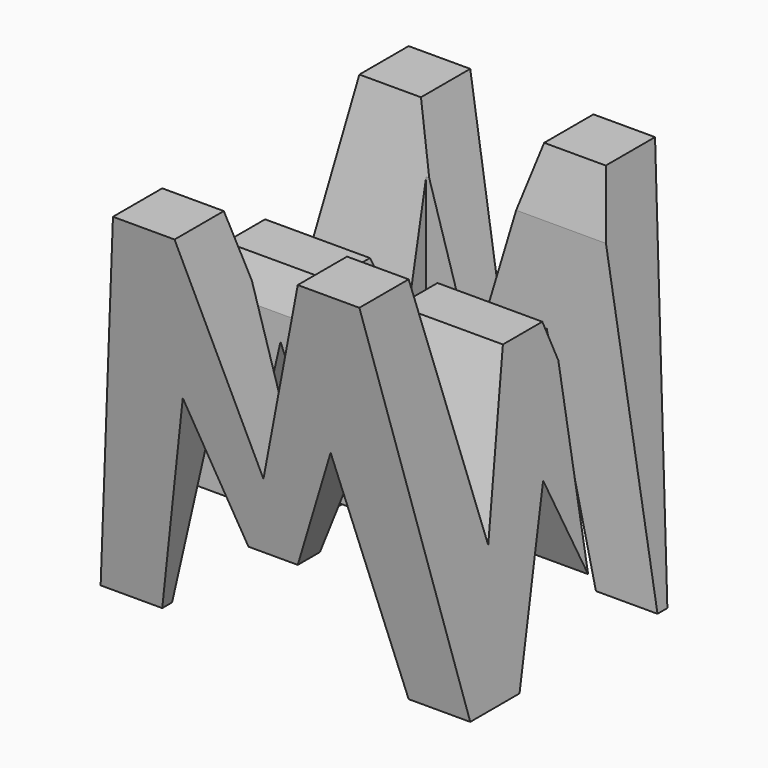
from build123d import *

# Parameters (mm, degrees)
F0_W      = 38.1
F0_H      = 38.1
F1_DEPTH  = 38.1
F6_DEPTH  = 38.1
F8_DEPTH  = 38.1
F9_W      = 23.850204
F9_H      = 7.62
F9_W_2    = 24.289329
F10_DEPTH = 38.1


with BuildPart() as f1:
    # F0 (on Front) → F1 (new body)
    with BuildSketch(Plane.XZ):
        with Locations((19.05, 19.05)):
            Rectangle(F0_W, F0_H)
    extrude(amount=F1_DEPTH)

    # F5 (on offset) → F6 (cut)
    with BuildSketch(Plane.YZ.offset(38.1)):
        Polygon((-11.43, 13.264209), (-6.35, 38.1), (-9.257666, 38.1), (-31.75, 38.1), (-26.67, 13.264209), (-21.59, 28.575), (-16.51, 28.575), align=None)
        Polygon((-38.1, 0), (-31.75, 0), (-38.1, 38.1), align=None)
        Polygon((-25.4, 0), (-12.7, 0), (-19.05, 15.875), align=None)
        Polygon((-6.35, 0), (0, 0), (0, 38.1), align=None)
    extrude(amount=-F6_DEPTH, mode=Mode.SUBTRACT)

    # F7 (on offset) → F8 (cut)
    with BuildSketch(Plane.XZ.offset(38.1)):
        Polygon((0, 38.1), (0, 0), (6.35, 38.1), align=None)
        Polygon((19.05, 17.011538), (25.4, 38.1), (12.7, 38.1), align=None)
        Polygon((6.35, 0), (31.75, 0), (26.67, 22.225), (21.59, 9.525), (16.51, 9.525), (11.43, 22.225), align=None)
        Polygon((38.1, 0), (38.1, 38.1), (31.75, 38.1), align=None)
    extrude(amount=-F8_DEPTH, mode=Mode.SUBTRACT)

    # F9 (on offset) → F10 (cut)
    with BuildSketch(Plane.XY.offset(38.1)):
        with Locations((26.174898, -11.43)):
            Rectangle(F9_W, F9_H)
        with Locations((12.144664, -26.67)):
            Rectangle(F9_W_2, F9_H)
    extrude(amount=-F10_DEPTH, mode=Mode.SUBTRACT)


solid = f1.part
